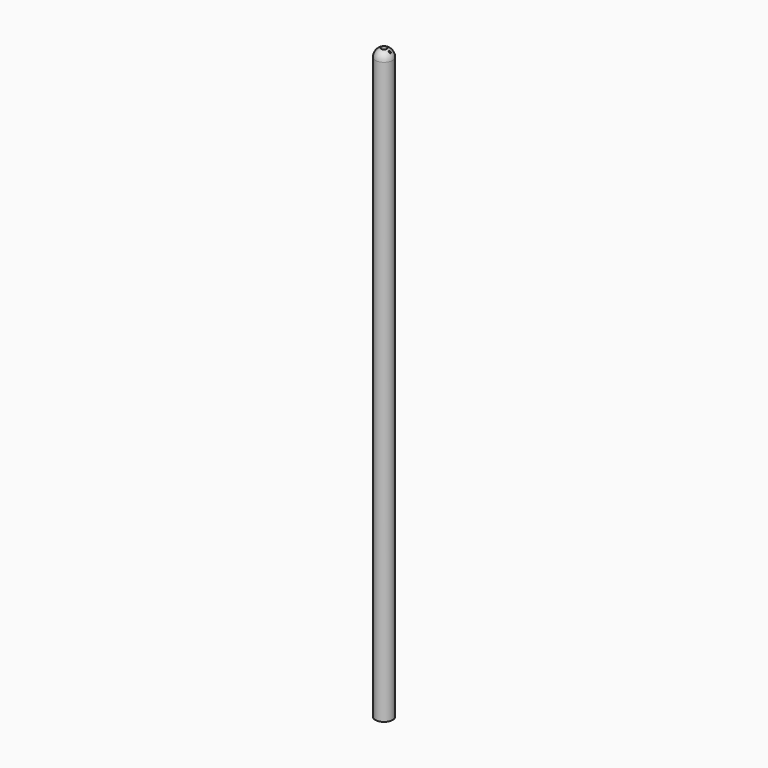
from build123d import *

# Parameters (mm, degrees)
F2_R        = 0.5
F2_R_2      = 0.15
F3_DEPTH    = 25.4
F1_FACE_R   = 1.5
F1_FACE_R_2 = 0.15
F1_FACE_R_3 = 0.5
F4_DEPTH    = 100


with BuildPart() as f1:
    # F0 (on Right) → F1 (revolve)
    with BuildSketch(Plane.YZ):
        with BuildLine():
            Line((0, 0), (0, 1.5))
            ThreePointArc((0, 1.5), (-1.06066, 1.06066), (-1.5, 0))
            Line((-1.5, 0), (0, 0))
        make_face()
    revolve(axis=Axis((0, 0, 0.75), (0, 0, -1)))

    # F2 (on face) → F3 (cut)
    with BuildSketch(Plane(origin=(0, 0, 0), x_dir=(1, 0, 0), z_dir=(0, 0, -1))):
        Circle(F2_R)
        with Locations((1, 0)):
            Circle(F2_R_2)
    extrude(amount=-F3_DEPTH, mode=Mode.SUBTRACT)

    # F1_face (on face) → F4 (join)
    with BuildSketch(Plane(origin=(0, 0, 0), x_dir=(1, 0, 0), z_dir=(0, 0, -1))):
        Circle(F1_FACE_R)
        with Locations((1, 0)):
            Circle(F1_FACE_R_2, mode=Mode.SUBTRACT)
        Circle(F1_FACE_R_3, mode=Mode.SUBTRACT)
    extrude(amount=F4_DEPTH)


solid = f1.part
